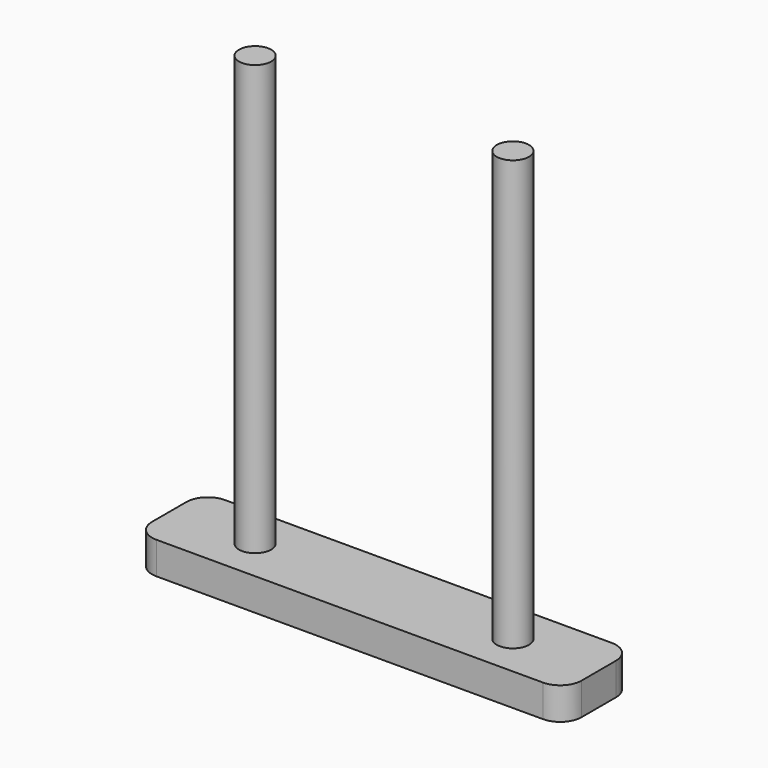
from build123d import *

# Parameters (mm, degrees)
F1_DEPTH = 3
F2_R     = 2
F3_DEPTH = 40


with BuildPart() as f1:
    # F0 (on Top) → F1 (new body)
    with BuildSketch(Plane.XY):
        with BuildLine():
            Line((11.7317076979, 4.315632835), (-8.2682923021, 4.315632835))
            Line((-8.2682923021, 4.315632835), (-8.2682923021, 0.315632835))
            Line((-8.2682923021, 0.315632835), (-1.7682923021, 0.315632835))
            ThreePointArc((-1.7682923021, 0.315632835), (-0.2682923021, 1.815632835), (1.2317076979, 0.315632835))
            Line((1.2317076979, 0.315632835), (11.7317076979, 0.315632835))
            Line((11.7317076979, 0.315632835), (11.7317076979, 4.315632835))
        make_face()
        with BuildLine():
            Line((31.7317076979, 4.315632835), (11.7317076979, 4.315632835))
            Line((11.7317076979, 4.315632835), (11.7317076979, 0.315632835))
            Line((11.7317076979, 0.315632835), (22.2317076979, 0.315632835))
            ThreePointArc((22.2317076979, 0.315632835), (23.7317076979, 1.815632835), (25.2317076979, 0.315632835))
            Line((25.2317076979, 0.315632835), (31.7317076979, 0.315632835))
            Line((31.7317076979, 0.315632835), (31.7317076979, 4.315632835))
        make_face()
        with BuildLine():
            Line((-1.7682923021, 0.315632835), (-8.2682923021, 0.315632835))
            Line((-8.2682923021, 0.315632835), (-8.2682923021, -3.684367165))
            Line((-8.2682923021, -3.684367165), (11.7317076979, -3.684367165))
            Line((11.7317076979, -3.684367165), (11.7317076979, 0.315632835))
            Line((11.7317076979, 0.315632835), (1.2317076979, 0.315632835))
            ThreePointArc((1.2317076979, 0.315632835), (-0.2682923021, -1.184367165), (-1.7682923021, 0.315632835))
        make_face()
        with BuildLine():
            Line((22.2317076979, 0.315632835), (11.7317076979, 0.315632835))
            Line((11.7317076979, 0.315632835), (11.7317076979, -3.684367165))
            Line((11.7317076979, -3.684367165), (31.7317076979, -3.684367165))
            Line((31.7317076979, -3.684367165), (31.7317076979, 0.315632835))
            Line((31.7317076979, 0.315632835), (25.2317076979, 0.315632835))
            ThreePointArc((25.2317076979, 0.315632835), (23.7317076979, -1.184367165), (22.2317076979, 0.315632835))
        make_face()
        with BuildLine():
            Line((1.2317076979, 0.315632835), (-1.7682923021, 0.315632835))
            ThreePointArc((-1.7682923021, 0.315632835), (-0.2682923021, -1.184367165), (1.2317076979, 0.315632835))
        make_face()
        with BuildLine():
            ThreePointArc((1.2317076979, 0.315632835), (-0.2682923021, 1.815632835), (-1.7682923021, 0.315632835))
            Line((-1.7682923021, 0.315632835), (1.2317076979, 0.315632835))
        make_face()
        with BuildLine():
            ThreePointArc((25.2317076979, 0.315632835), (23.7317076979, 1.815632835), (22.2317076979, 0.315632835))
            Line((22.2317076979, 0.315632835), (25.2317076979, 0.315632835))
        make_face()
        with BuildLine():
            Line((25.2317076979, 0.315632835), (22.2317076979, 0.315632835))
            ThreePointArc((22.2317076979, 0.315632835), (23.7317076979, -1.184367165), (25.2317076979, 0.315632835))
        make_face()
    extrude(amount=-F1_DEPTH)

    # F2
    f2_edges = [f1.edges().sort_by_distance(p)[0] for p in [
        (-8.268292, -3.684367, -1.5),
        (-8.268292, 4.315633, -1.5),
        (31.731708, -3.684367, -1.5),
        (31.731708, 4.315633, -1.5),
    ]]
    fillet(f2_edges, radius=F2_R)

    # F0 (on Top) → F3 (join)
    with BuildSketch(Plane.XY):
        with BuildLine():
            ThreePointArc((1.2317076979, 0.315632835), (-0.2682923021, 1.815632835), (-1.7682923021, 0.315632835))
            Line((-1.7682923021, 0.315632835), (1.2317076979, 0.315632835))
        make_face()
        with BuildLine():
            Line((1.2317076979, 0.315632835), (-1.7682923021, 0.315632835))
            ThreePointArc((-1.7682923021, 0.315632835), (-0.2682923021, -1.184367165), (1.2317076979, 0.315632835))
        make_face()
        with BuildLine():
            ThreePointArc((25.2317076979, 0.315632835), (23.7317076979, 1.815632835), (22.2317076979, 0.315632835))
            Line((22.2317076979, 0.315632835), (25.2317076979, 0.315632835))
        make_face()
        with BuildLine():
            Line((25.2317076979, 0.315632835), (22.2317076979, 0.315632835))
            ThreePointArc((22.2317076979, 0.315632835), (23.7317076979, -1.184367165), (25.2317076979, 0.315632835))
        make_face()
    extrude(amount=F3_DEPTH)


solid = f1.part
